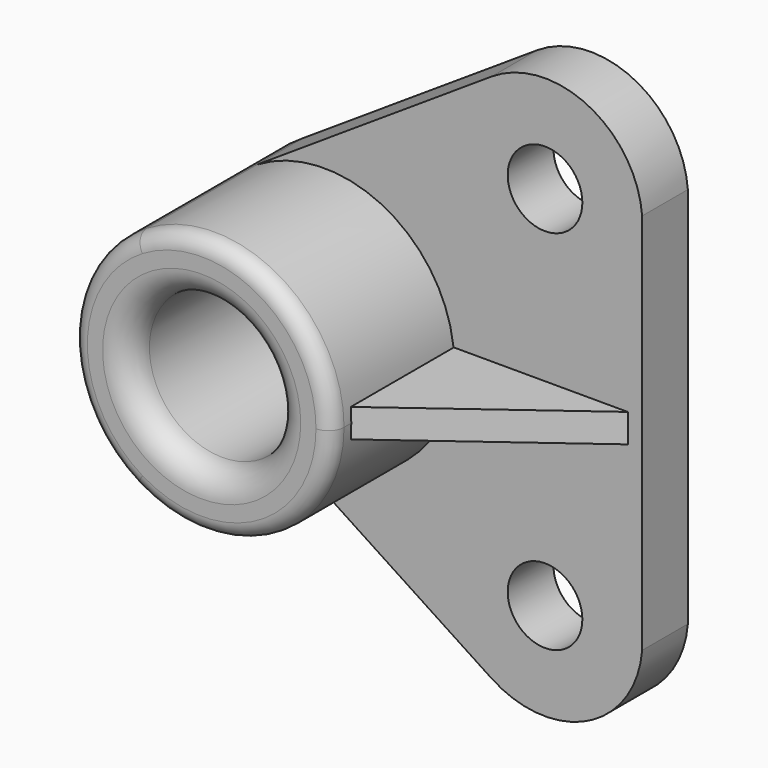
from build123d import *

# Parameters (mm, degrees)
F0_R     = 14.2875
F1_DEPTH = 41.148
F0_R_2   = 7.298311
F2_DEPTH = 11.176
F3_R     = 5.08
F4_R     = 3.048
F6_DEPTH = 2.794


with BuildPart() as f1:
    # F0 (on Front) → F1 (new body)
    with BuildSketch(Plane.XZ):
        with BuildLine():
            ThreePointArc((-13.16432, -21.722355), (12.465678, -22.130677), (25.4, 0))
            ThreePointArc((25.4, 0), (12.465678, 22.130677), (-13.16432, 21.722355))
            ThreePointArc((-13.16432, 21.722355), (-25.4, 0), (-13.16432, -21.722355))
        make_face()
        Circle(F0_R, mode=Mode.SUBTRACT)
    extrude(amount=F1_DEPTH)

    # F0 (on Front) → F2 (join)
    with BuildSketch(Plane.XZ):
        with BuildLine():
            ThreePointArc((-13.16432, 21.722355), (12.465678, 22.130677), (25.4, 0))
            ThreePointArc((25.4, 0), (12.465678, -22.130677), (-13.16432, -21.722355))
            Line((-13.16432, -21.722355), (32.706421, -51.803458))
            ThreePointArc((32.706421, -51.803458), (51.531426, -52.981963), (62.14277, -37.388084))
            Line((62.14277, -37.388084), (62.14277, 37.388084))
            ThreePointArc((62.14277, 37.388084), (51.531426, 52.981963), (32.706421, 51.803458))
            Line((32.706421, 51.803458), (-13.16432, 21.722355))
        make_face()
        with Locations((43.15309, -35.873311)):
            Circle(F0_R_2, mode=Mode.SUBTRACT)
        with Locations((43.15309, 35.873311)):
            Circle(F0_R_2, mode=Mode.SUBTRACT)
    extrude(amount=F2_DEPTH)

    # F3
    f3_edges = [f1.edges().sort_by_distance(p)[0] for p in [
        (-14.2875, -41.148, 0),
    ]]
    fillet(f3_edges, radius=F3_R)

    # F4
    f4_edges = [f1.edges().sort_by_distance(p)[0] for p in [
        (-25.4, -41.148, 0),
    ]]
    fillet(f4_edges, radius=F4_R)

    # F5 (on Top) → F6 (join, symmetric)
    with BuildSketch(Plane.XY):
        Polygon((59.404932, -11.267408), (25.343085, -11.20039), (25.343085, -36.381185), align=None)
    extrude(amount=F6_DEPTH, both=True)


solid = f1.part
